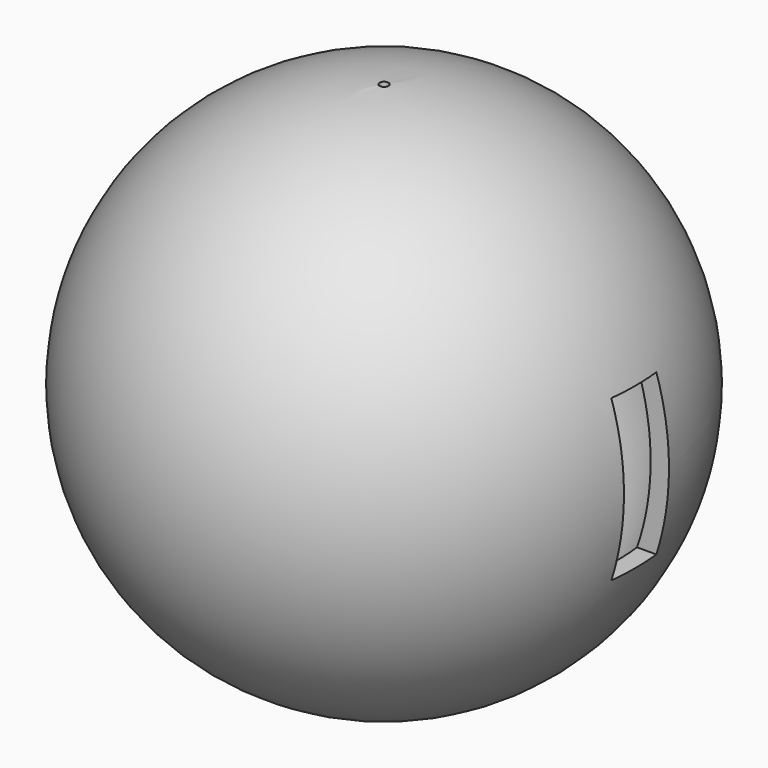
from build123d import *

# Parameters (mm, degrees)
F3_R     = 1
F4_DEPTH = 100
F7_W     = 12.659744
F7_H     = 36.118894
F8_DEPTH = 118.783902


with BuildPart() as f2:
    # F0 (on Top) → F2 (revolve)
    with BuildSketch(Plane.XY):
        with BuildLine():
            ThreePointArc((-55.291078, 0), (0, 55.291078), (55.291078, 0))
            Line((55.291078, 0), (59.391451, 0))
            ThreePointArc((59.391451, 0), (0, 59.391451), (-59.391451, 0))
            Line((-59.391451, 0), (-55.291078, 0))
        make_face()
    revolve(axis=Axis((34.508616, 0, 0), (1, 0, 0)))


with BuildPart() as f4:
    # F3 (on Top) → F4 (new body, symmetric)
    with BuildSketch(Plane.XY):
        Circle(F3_R)
    extrude(amount=F4_DEPTH, both=True)


with BuildPart() as f2_1:
    add(f2.part)

    # F5: cut F4
    add(f4.part, mode=Mode.SUBTRACT)

    # F7 (on plane+point) → F8 (cut, through all)
    with BuildSketch(Plane.YZ.offset(59.391451)):
        Rectangle(F7_W, F7_H)
    extrude(amount=-F8_DEPTH, mode=Mode.SUBTRACT)


solid = f2_1.part
